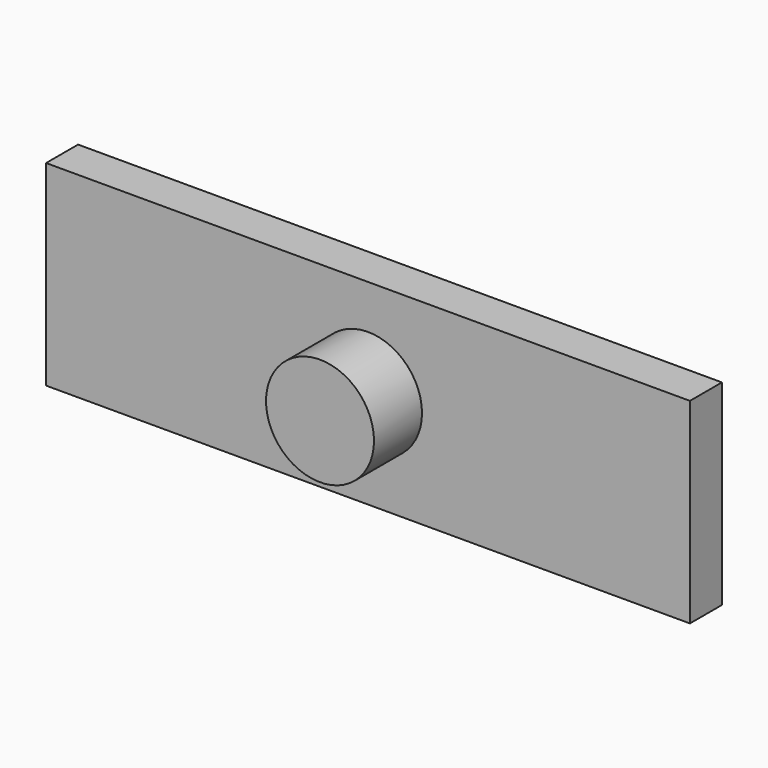
from build123d import *

# Parameters (mm, degrees)
F0_R     = 13.5
F1_DEPTH = 25
F0_W     = 161
F0_H     = 49
F2_DEPTH = 10


with BuildPart() as f1:
    # F0 (on Front) → F1 (new body)
    with BuildSketch(Plane.XZ):
        Circle(F0_R)
    extrude(amount=F1_DEPTH)

    # F0 (on Front) → F2 (join)
    with BuildSketch(Plane.XZ):
        Rectangle(F0_W, F0_H)
        Circle(F0_R, mode=Mode.SUBTRACT)
    extrude(amount=F2_DEPTH)


solid = f1.part
